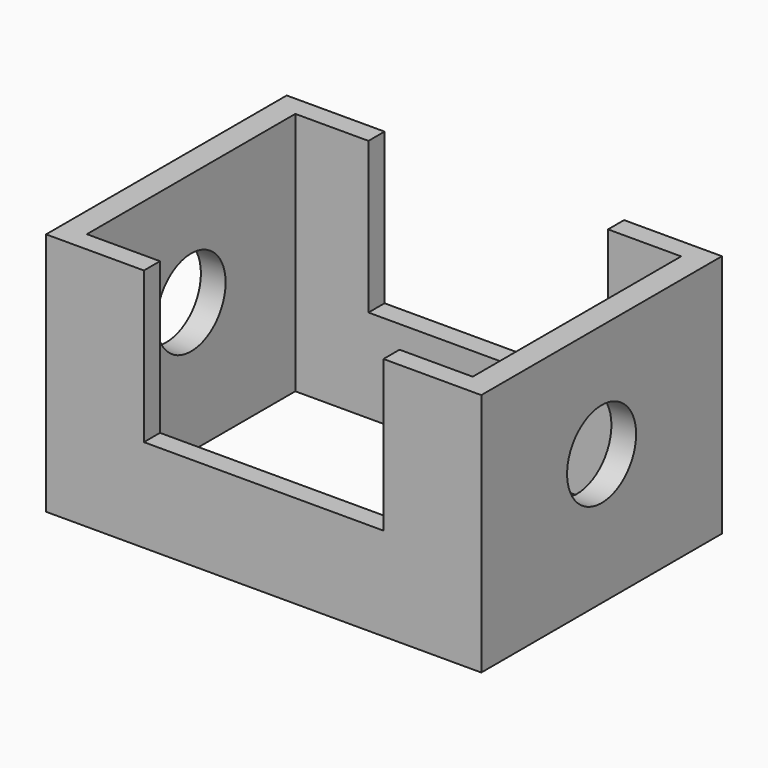
from build123d import *

# Parameters (mm, degrees)
F0_W     = 135.774552
F0_H     = 93.844176
F0_W_2   = 120.37155
F0_H_2   = 81.29359
F1_DEPTH = 76.2
F2_R     = 13.454778
F3_DEPTH = 135.775553
F4_W     = 74.733056
F4_H     = 47.146207
F5_DEPTH = 93.845175


with BuildPart() as f1:
    # F0 (on Top) → F1 (new body)
    with BuildSketch(Plane.XY):
        Rectangle(F0_W, F0_H)
        Rectangle(F0_W_2, F0_H_2, mode=Mode.SUBTRACT)
    extrude(amount=F1_DEPTH)

    # F2 (on face) → F3 (cut, through all)
    with BuildSketch(Plane.YZ.offset(67.887276)):
        with Locations((0, 40.932029)):
            Circle(F2_R)
    extrude(amount=-F3_DEPTH, mode=Mode.SUBTRACT)

    # F4 (on face) → F5 (cut, through all)
    with BuildSketch(Plane.XZ.offset(46.922088)):
        with Locations((0, 52.626897)):
            Rectangle(F4_W, F4_H)
    extrude(amount=-F5_DEPTH, mode=Mode.SUBTRACT)


solid = f1.part
